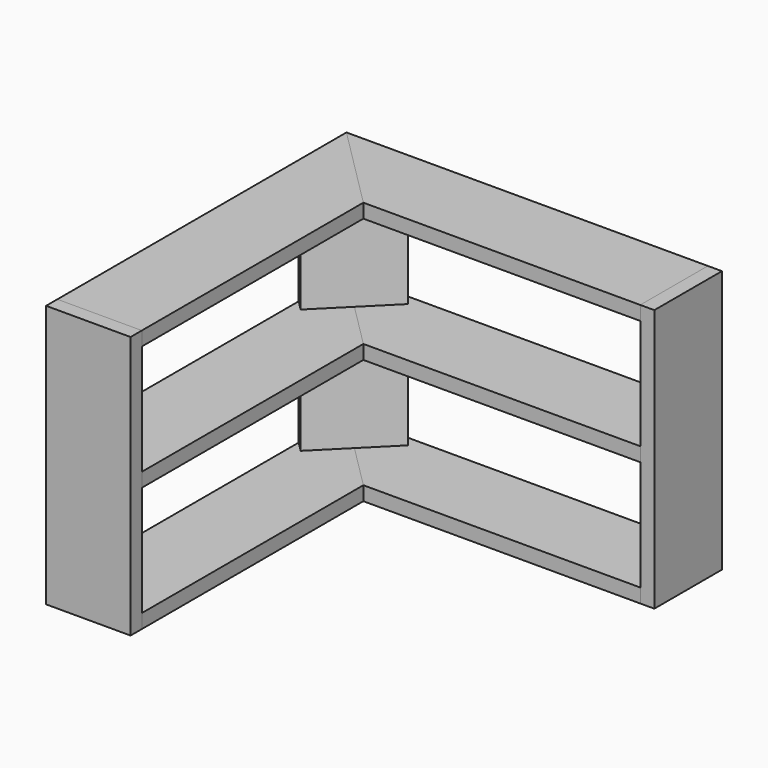
from build123d import *

# Parameters (mm, degrees)
F1_DEPTH  = 19.05
F3_DEPTH  = 19.05
F4_W      = 114.3
F4_H      = 336.55
F4_H_2    = 19.05
F5_DEPTH  = 19.05
F6_W      = 114.3
F6_H      = 336.55
F6_H_2    = 19.05
F7_DEPTH  = 19.05
F10_DEPTH = 19.05
F12_DEPTH = 19.05
F15_DEPTH = 9.525
F17_DEPTH = 9.525
F19_DEPTH = 149.225
F21_DEPTH = 149.225


with BuildPart() as f1:
    # F0 (on Top) → F1 (new body)
    with BuildSketch(Plane.XY):
        Polygon((-114.3, -374.65), (0, -374.65), (0, 0), (-114.3, 114.3), align=None)
    extrude(amount=F1_DEPTH)


with BuildPart() as f3:
    # F2 (on face) → F3 (new body)
    with BuildSketch(Plane(origin=(0, 0, 0), x_dir=(1, 0, 0), z_dir=(0, 0, -1))):
        Polygon((0, 0), (-114.3, -114.3), (374.65, -114.3), (374.65, 0), align=None)
    extrude(amount=-F3_DEPTH)


with BuildPart() as f5:
    # F4 (on face) → F5 (new body)
    with BuildSketch(Plane.XZ.offset(374.65)):
        with Locations((-57.15, 187.325)):
            Rectangle(F4_W, F4_H)
        with Locations((-57.15, 9.525)):
            Rectangle(F4_W, F4_H_2)
    extrude(amount=F5_DEPTH)


with BuildPart() as f7:
    # F6 (on face) → F7 (new body)
    with BuildSketch(Plane.YZ.offset(374.65)):
        with Locations((57.15, 187.325)):
            Rectangle(F6_W, F6_H)
        with Locations((57.15, 9.525)):
            Rectangle(F6_W, F6_H_2)
    extrude(amount=F7_DEPTH)


with BuildPart() as f10:
    # F9 (on offset) → F10 (new body)
    with BuildSketch(Plane(origin=(0, 0, 355.6), x_dir=(1, 0, 0), z_dir=(0, 0, -1))):
        Polygon((-114.3, 374.65), (-114.3, -114.3), (0, 0), (0, 374.65), align=None)
    extrude(amount=F10_DEPTH)


with BuildPart() as f12:
    # F11 (on offset) → F12 (new body)
    with BuildSketch(Plane(origin=(0, 0, 355.6), x_dir=(1, 0, 0), z_dir=(0, 0, -1))):
        Polygon((374.65, 0), (0, 0), (-114.3, -114.3), (374.65, -114.3), align=None)
    extrude(amount=F12_DEPTH)


with BuildPart() as f15:
    # F14 (on mid) → F15 (new body, symmetric)
    with BuildSketch(Plane(origin=(0, 0, 177.8), x_dir=(1, 0, 0), z_dir=(0, 0, -1))):
        Polygon((0, 374.65), (-114.3, 374.65), (-114.3, -114.3), (0, 0), align=None)
    extrude(amount=F15_DEPTH, both=True)


with BuildPart() as f17:
    # F16 (on mid) → F17 (new body, symmetric)
    with BuildSketch(Plane(origin=(0, 0, 177.8), x_dir=(1, 0, 0), z_dir=(0, 0, -1))):
        Polygon((0, 0), (-114.3, -114.3), (374.65, -114.3), (374.65, 0), align=None)
    extrude(amount=F17_DEPTH, both=True)


with BuildPart() as f19:
    # F18 (on face) → F19 (new body, through all)
    with BuildSketch(Plane.XY.offset(187.325)):
        Polygon((-20.0073107288, 100.8296158184), (-33.4776949104, 114.3), (-73.8888474552, 73.8888474552), (-60.4184632736, 60.4184632736), align=None)
        Polygon((-60.4184632736, 60.4184632736), (-73.8888474552, 73.8888474552), (-114.3, 33.4776949104), (-100.8296158184, 20.0073107288), align=None)
    extrude(amount=F19_DEPTH)


with BuildPart() as f21:
    # F20 (on face) → F21 (new body, through all)
    with BuildSketch(Plane(origin=(0, 0, 168.275), x_dir=(1, 0, 0), z_dir=(0, 0, -1))):
        Polygon((-114.3, -33.4776949104), (-73.8888474552, -73.8888474552), (-60.4184632736, -60.4184632736), (-100.8296158184, -20.0073107288), align=None)
        Polygon((-73.8888474552, -73.8888474552), (-33.4776949104, -114.3), (-20.0073107288, -100.8296158184), (-60.4184632736, -60.4184632736), align=None)
    extrude(amount=F21_DEPTH)


solid = Compound([f1.part, f3.part, f5.part, f7.part, f10.part, f12.part, f15.part, f17.part, f19.part, f21.part])
